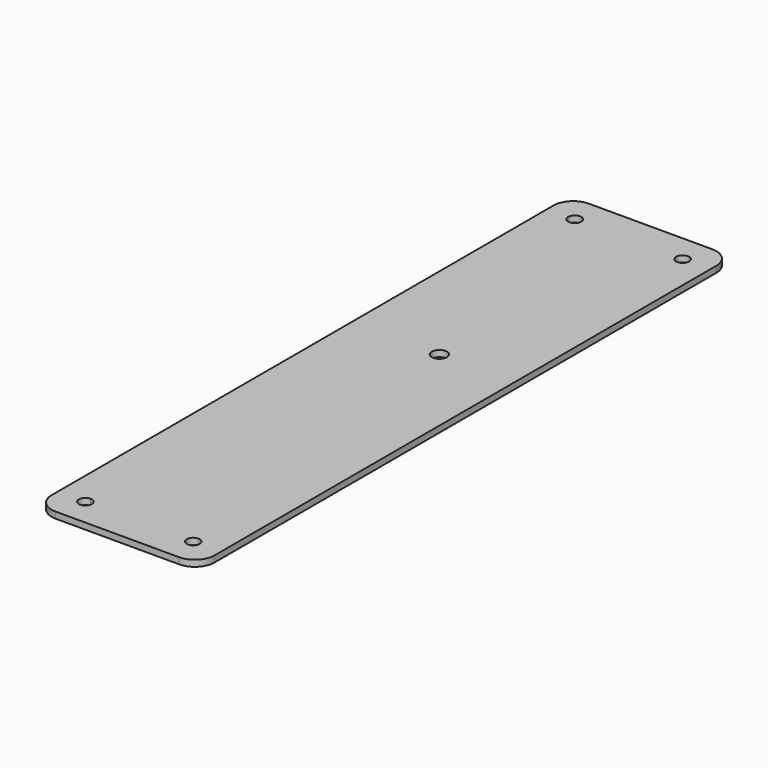
from build123d import *

# Parameters (mm, degrees)
F0_W     = 41.4
F0_H     = 169.4
F0_R     = 1.922521
F1_DEPTH = 1.6
F2_R     = 5


with BuildPart() as f1:
    # F0 (on Top) → F1 (new body)
    with BuildSketch(Plane.XY):
        Rectangle(F0_W, F0_H)
        with BuildLine():
            ThreePointArc((-13.7, 76.05), (-14.866726, 78.866726), (-12.05, 77.7))
            Line((-12.05, 77.7), (12.05, 77.7))
            ThreePointArc((12.05, 77.7), (13.7, 79.35), (15.35, 77.7))
            ThreePointArc((15.35, 77.7), (14.866726, 76.533274), (13.7, 76.05))
            Line((13.7, 76.05), (13.7, -76.05))
            ThreePointArc((13.7, -76.05), (14.866726, -76.533274), (15.35, -77.7))
            ThreePointArc((15.35, -77.7), (13.7, -79.35), (12.05, -77.7))
            Line((12.05, -77.7), (-12.05, -77.7))
            ThreePointArc((-12.05, -77.7), (-14.866726, -78.866726), (-13.7, -76.05))
            Line((-13.7, -76.05), (-13.7, 76.05))
        make_face(mode=Mode.SUBTRACT)
        with BuildLine():
            Line((12.05, 77.7), (-12.05, 77.7))
            ThreePointArc((-12.05, 77.7), (-12.533274, 76.533274), (-13.7, 76.05))
            Line((-13.7, 76.05), (-13.7, -76.05))
            ThreePointArc((-13.7, -76.05), (-12.533274, -76.533274), (-12.05, -77.7))
            Line((-12.05, -77.7), (12.05, -77.7))
            ThreePointArc((12.05, -77.7), (12.533274, -76.533274), (13.7, -76.05))
            Line((13.7, -76.05), (13.7, 76.05))
            ThreePointArc((13.7, 76.05), (12.533274, 76.533274), (12.05, 77.7))
        make_face()
        with Locations((1.6, 15.6)):
            Circle(F0_R, mode=Mode.SUBTRACT)
    extrude(amount=F1_DEPTH)

    # F2
    f2_edges = [f1.edges().sort_by_distance(p)[0] for p in [
        (-20.7, -84.7, 0.8),
        (20.7, -84.7, 0.8),
        (20.7, 84.7, 0.8),
        (-20.7, 84.7, 0.8),
    ]]
    fillet(f2_edges, radius=F2_R)


solid = f1.part
